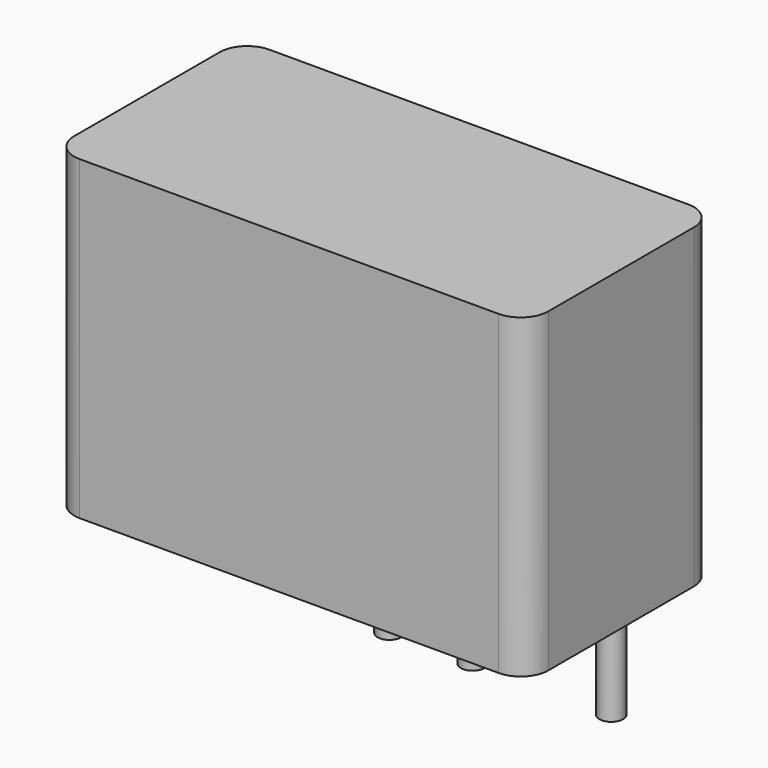
from build123d import *

# Parameters (mm, degrees)
SKETCH_R     = 0.3
PAD_DEPTH    = 3
SKETCH001_W  = 12
SKETCH001_H  = 6
PAD001_DEPTH = 8
FILLET_R     = 0.7


with BuildPart() as body:
    # Sketch → Pad (new body)
    with BuildSketch(Plane.XY):
        Circle(SKETCH_R)
    extrude(amount=-PAD_DEPTH)


with BuildPart() as body_1:
    # Body placement: moved
    add(body.part.moved(Location((-4.5593, -1, 0))))


with BuildPart() as body002:
    # Body001 base: copy of Body
    add(body_1.part)


with BuildPart() as body002_1:
    # Body001 placement: moved
    add(body002.part.moved(Location((0, 2.4892, 0))))


with BuildPart() as body002_2:
    # Body002 placement: moved
    add(body002_1.part.moved(Location((3.5052, 0, 0))))


with BuildPart() as body005:
    # Body003 base: copy of Body
    add(body_1.part)


with BuildPart() as body005_1:
    # Body003 placement: moved
    add(body005.part.moved(Location((1.7526, 0, 0))))


with BuildPart() as body005_2:
    # Body004 placement: moved
    add(body005_1.part.moved(Location((1.7526, 0, 0))))


with BuildPart() as body005_3:
    # Body005 placement: moved
    add(body005_2.part.moved(Location((2.1082, 0, 0))))


with BuildPart() as body008:
    # Body006 base: copy of Body005
    add(body005_3.part)


with BuildPart() as body008_1:
    # Body006 placement: moved
    add(body008.part.moved(Location((1.7526, 0, 0))))


with BuildPart() as body008_2:
    # Body007 placement: moved
    add(body008_1.part.moved(Location((1.7526, 0, 0))))


with BuildPart() as body008_3:
    # Body008 placement: moved
    add(body008_2.part.moved(Location((0, 2.4892, 0))))


with BuildPart() as body009:
    # Body009 base: copy of Body005
    add(body005_3.part)


with BuildPart() as body009_1:
    # Body009 placement: moved
    add(body009.part.moved(Location((0, 2.4892, 0))))


with BuildPart() as body010:
    # Sketch001 → Pad001 (new body)
    with BuildSketch(Plane.XY):
        Rectangle(SKETCH001_W, SKETCH001_H)
    extrude(amount=PAD001_DEPTH)

    # Fillet
    fillet_edges = [body010.edges().sort_by_distance(p)[0] for p in [
        (6, 3, 4),
        (6, -3, 4),
        (-6, -3, 4),
        (-6, 3, 4),
    ]]
    fillet(fillet_edges, radius=FILLET_R)


solid = Compound([body002_2.part, body008_3.part, body009_1.part, body010.part])
